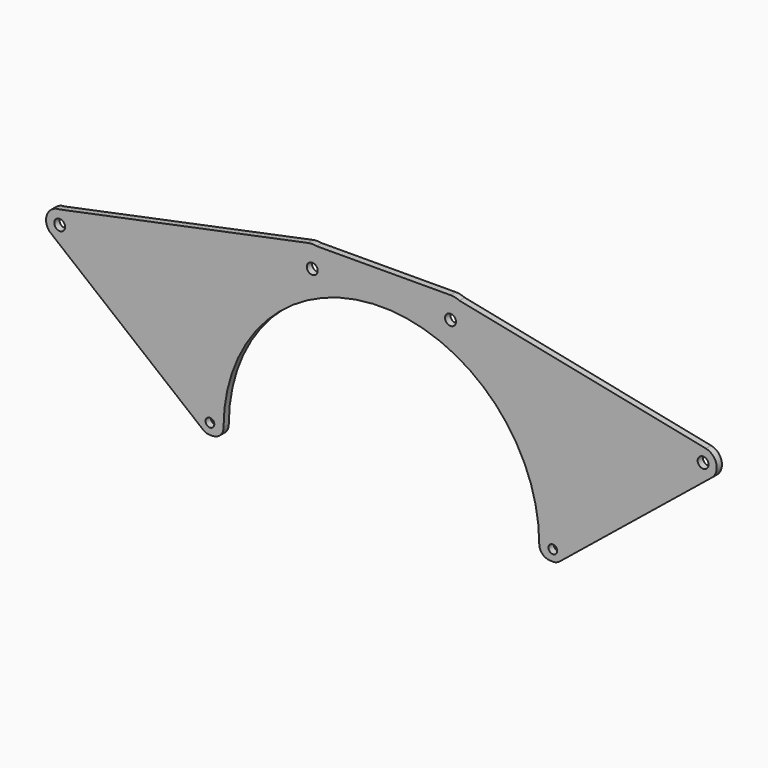
from build123d import *

# Parameters (mm, degrees)
F0_R     = 4
F0_R_2   = 5
F1_DEPTH = 6
F2_R     = 10


with BuildPart() as f1:
    # F0 (on Front) → F1 (new body)
    with BuildSketch(Plane.XZ):
        with BuildLine():
            ThreePointArc((-144.660726, -9.91334), (-0.357114, 144.99956), (144.707801, -9.200666))
            Line((144.707801, -9.200666), (156.522168, -9.952077))
            Line((156.522168, -9.952077), (157.209119, -9.995769))
            ThreePointArc((157.209119, -9.995769), (160.702353, -9.47338), (163.796076, -7.769133))
            Line((163.796076, -7.769133), (302.56026, 104.68483))
            Line((302.56026, 104.68483), (304.128535, 105.955755))
            ThreePointArc((304.128535, 105.955755), (307.51077, 118.462861), (297.98923, 127.249642))
            Line((297.98923, 127.249642), (71.733118, 173.226787))
            ThreePointArc((71.733118, 173.226787), (67.679112, 174.558503), (63.434867, 174.999894))
            Line((63.434867, 174.999894), (-59.51749, 174.59948))
            ThreePointArc((-59.51749, 174.59948), (-63.53231, 174.999974), (-67.545815, 174.58651))
            Line((-67.545815, 174.58651), (-295.5, 127.5))
            ThreePointArc((-295.5, 127.5), (-306.963068, 119.984783), (-304.642546, 106.47569))
            Line((-304.642546, 106.47569), (-163.799516, -7.766344))
            ThreePointArc((-163.799516, -7.766344), (-161.469112, -9.17857), (-158.843996, -9.909272))
            Line((-158.843996, -9.909272), (-156.161689, -9.910041))
            Line((-156.161689, -9.910041), (-144.660726, -9.91334))
        make_face()
        with Locations((-157.5, 0)):
            Circle(F0_R, mode=Mode.SUBTRACT)
        with Locations((157.5, 0)):
            Circle(F0_R, mode=Mode.SUBTRACT)
        with Locations((-295.5, 115)):
            Circle(F0_R_2, mode=Mode.SUBTRACT)
        with Locations((-63.5, 155)):
            Circle(F0_R_2, mode=Mode.SUBTRACT)
        with Locations((295.5, 115)):
            Circle(F0_R_2, mode=Mode.SUBTRACT)
        with Locations((63.5, 155)):
            Circle(F0_R_2, mode=Mode.SUBTRACT)
        with BuildLine():
            Line((157.209119, -9.995769), (156.522168, -9.952077))
            ThreePointArc((156.522168, -9.952077), (156.865267, -9.979835), (157.209119, -9.995769))
        make_face()
        with BuildLine():
            ThreePointArc((-158.843996, -9.909272), (-157.502868, -10), (-156.161689, -9.910041))
            Line((-156.161689, -9.910041), (-158.843996, -9.909272))
        make_face()
        with BuildLine():
            Line((304.128535, 105.955755), (302.56026, 104.68483))
            ThreePointArc((302.56026, 104.68483), (303.370095, 105.288584), (304.128535, 105.955755))
        make_face()
    extrude(amount=F1_DEPTH)

    # F2
    f2_edges = [f1.edges().sort_by_distance(p)[0] for p in [
        (-144.660726, -3, -9.91334),
        (144.707801, -3, -9.200666),
    ]]
    fillet(f2_edges, radius=F2_R)


solid = f1.part
